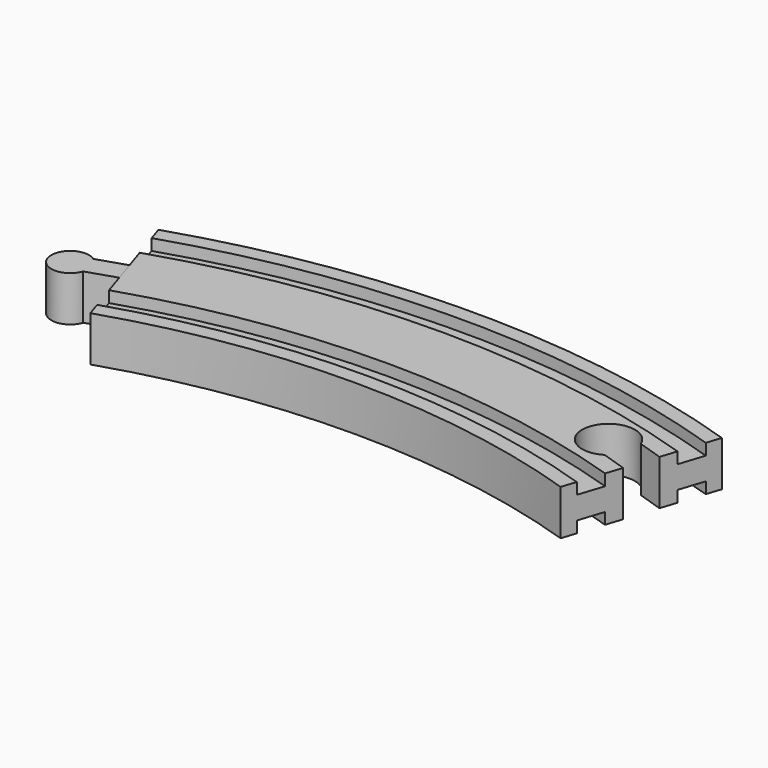
from build123d import *

# Parameters (mm, degrees)
POCKET_DEPTH = 12.001
PAD_DEPTH    = 6


with BuildPart() as body:
    # AdditivePipe: sweep along a path in Sketch
    with BuildLine(Plane.XY) as additivepipe_path:
        ThreePointArc((68.601773, 211.134547), (0, 222), (-68.601773, 211.134547))
    # Sketch002 (on DatumPlane) → AdditivePipe (sweep)
    with BuildSketch(Plane(origin=(-68.601773, 211.134547, 0), x_dir=(-0.309017, 0.951057, 0), z_dir=(0.951057, 0.309017, 0))):
        Polygon((-20, 6), (-20, -6), (-16, -6), (-16, -3), (-9, -3), (-9, -6), (9, -6), (9, -3), (16, -3), (16, -6), (20, -6), (20, 6), (16, 6), (16, 3), (9, 3), (9, 6), (-9, 6), (-9, 3), (-16, 3), (-16, 6), align=None)
    sweep(path=additivepipe_path.line)

    # Sketch004 (on Face18 of AdditivePipe) → Pocket (cut, through all)
    with BuildSketch(Plane(origin=(-68.601773, 211.134547, 6), x_dir=(0.309017, -0.951057, 0), z_dir=(0, 0, 1))):
        with BuildLine():
            Line((38.757651, 133.13336), (34.643154, 127.470241))
            ThreePointArc((34.643154, 127.470241), (31.017586, 114.824218), (41.924307, 122.180173))
            Line((46.038804, 127.843292), (41.924307, 122.180173))
            Line((38.757651, 133.13336), (46.038804, 127.843292))
        make_face()
    extrude(amount=-POCKET_DEPTH, mode=Mode.SUBTRACT)


with BuildPart() as body001:
    # Sketch003 → Pad (new body, symmetric)
    with BuildSketch(Plane.XY):
        with BuildLine():
            Line((-68.601773, 211.134547), (-67.674722, 208.281377))
            Line((-67.674722, 208.281377), (-75.283174, 205.809241))
            ThreePointArc((-77.137276, 211.51558), (-84.769734, 205.881258), (-75.283174, 205.809241))
            Line((-69.528824, 213.987716), (-77.137276, 211.51558))
            Line((-68.601773, 211.134547), (-69.528824, 213.987716))
        make_face()
    extrude(amount=PAD_DEPTH, both=True)


solid = Compound([body.part, body001.part])
